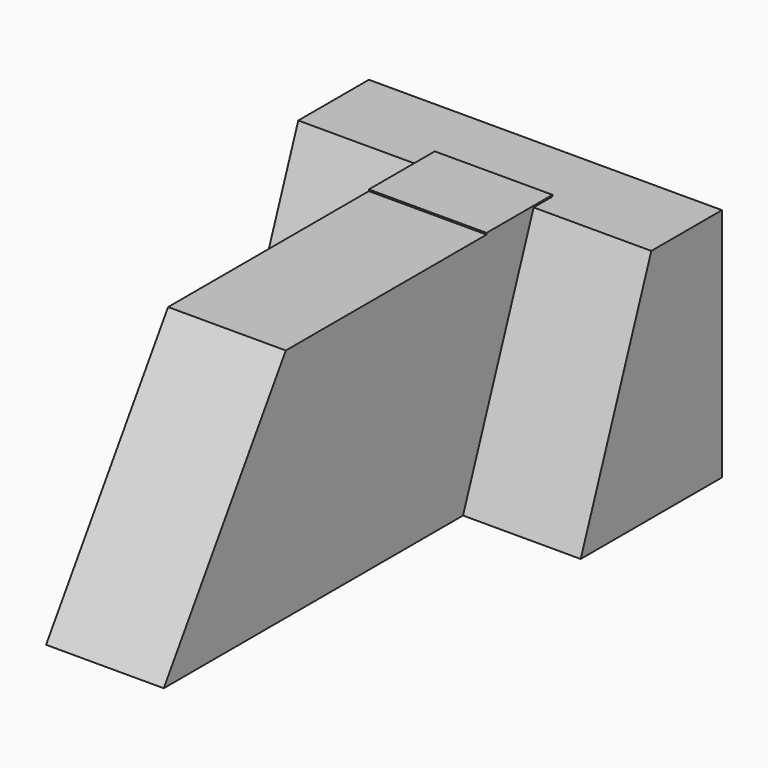
from build123d import *

# Parameters (mm, degrees)
F1_DEPTH  = 25.4
F1_FACE_W = 40.370063592
F1_FACE_H = 25.4
F3_DEPTH  = 12.7
F5_DEPTH  = 25.4
F7_DEPTH  = 12.7
F9_DEPTH  = 12.7
F11_DEPTH = 12.7


with BuildPart() as f1:
    # F0 (on Top) → F1 (new body)
    with BuildSketch(Plane.XY):
        Polygon((0, 40.370063592), (0, 0), (12.7, 0), (12.7, 40.370063592), (25.4, 40.370063592), (25.4, 59.420063592), (-12.7, 59.420063592), (-12.7, 40.370063592), align=None)
    extrude(amount=F1_DEPTH)

    # F2 (on Right) + F1_face (on face) → F3 (cut)
    with BuildSketch(Plane.YZ):
        Polygon((8.6346566677, 25.5012921989), (0, 0), (13.8414995745, 0), (21.3624928147, 25.5012921989), align=None)
    with BuildSketch(Plane(origin=(0, 20.185031796, 12.7), x_dir=(0, -1, 0), z_dir=(-1, 0, 0))):
        Rectangle(F1_FACE_W, F1_FACE_H)
    extrude(amount=-F3_DEPTH, dir=(1, 0, 0), mode=Mode.SUBTRACT)

    # F4 (on face) → F5 (cut)
    with BuildSketch(Plane.YZ.offset(12.7)):
        Polygon((0, 0), (16.459165141, 25.4), (0, 25.4), align=None)
    extrude(amount=-F5_DEPTH, mode=Mode.SUBTRACT)

    # F6 (on face) → F7 (cut)
    with BuildSketch(Plane(origin=(-12.7, 0, 0), x_dir=(0, -1, 0), z_dir=(-1, 0, 0))):
        Polygon((-40.370063592, 25.4), (-49.895063592, 25.4), (-40.370063592, 0), align=None)
    extrude(amount=-F7_DEPTH, mode=Mode.SUBTRACT)

    # F8 (on Right) → F9 (join)
    with BuildSketch(Plane.YZ):
        Polygon((43.5419380665, 25.5644246936), (43.5981824994, 0), (52.4402596056, 25.5644246936), align=None)
    extrude(amount=F9_DEPTH)

    # F10 (on face) → F11 (cut)
    with BuildSketch(Plane.YZ.offset(25.4)):
        Polygon((40.370063592, 25.4), (40.370063592, 0), (49.895063592, 25.4), align=None)
    extrude(amount=-F11_DEPTH, mode=Mode.SUBTRACT)


solid = f1.part
